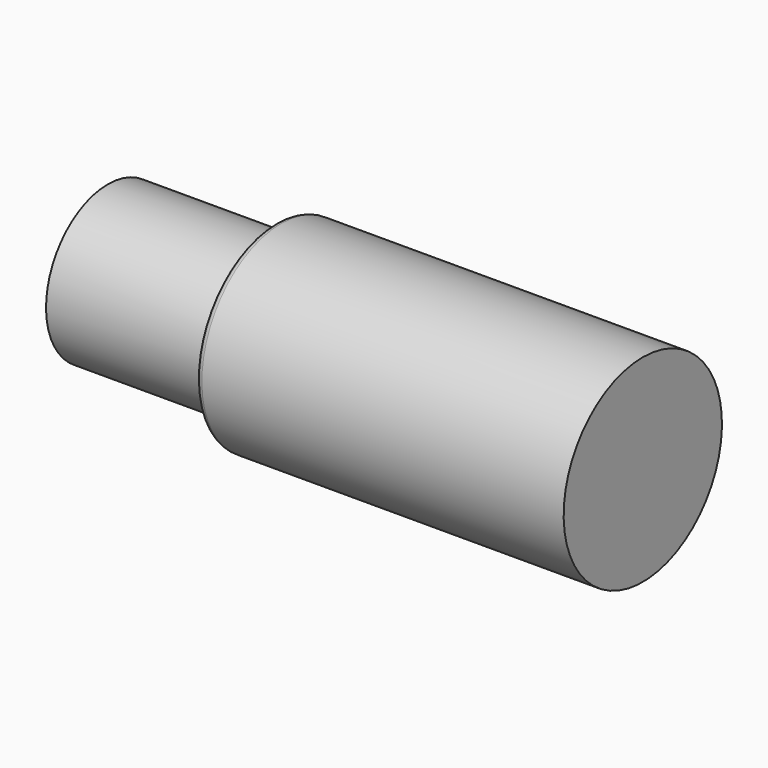
from build123d import *


with BuildPart() as f1:
    # F0 (on Front) → F1 (revolve)
    with BuildSketch(Plane.XZ):
        with BuildLine():
            ThreePointArc((-37.866836, 16), (-38.573943, 15.707107), (-38.866836, 15))
            Line((-38.866836, 15), (-38.866836, 13.5))
            ThreePointArc((-38.866836, 13.5), (-39.159729, 12.792893), (-39.866836, 12.5))
            Line((-39.866836, 12.5), (-65.866836, 12.5))
            Line((-65.866836, 12.5), (-65.866836, 0))
            Line((-65.866836, 0), (20.633164, 0))
            Line((20.633164, 0), (20.633164, 16))
            Line((20.633164, 16), (-37.866836, 16))
        make_face()
    revolve(axis=Axis((-22.616836, 0, 0), (1, 0, 0)))


solid = f1.part
